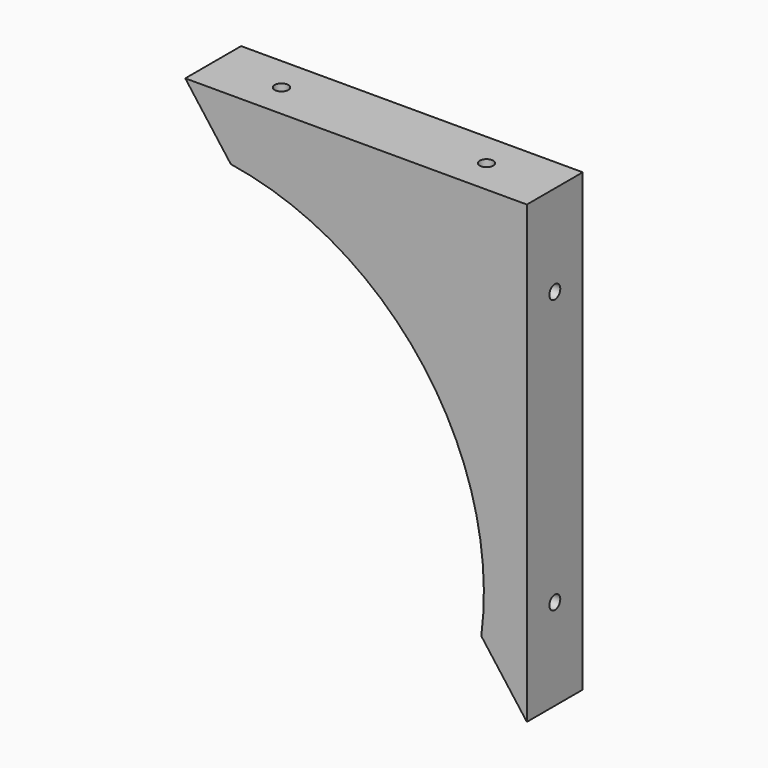
from build123d import *

# Parameters (mm, degrees)
PAD001_DEPTH    = 23
SKETCH003_R     = 2.25
POCKET_DEPTH    = 5
SKETCH004_R     = 2.25
POCKET001_DEPTH = 5


with BuildPart() as part:
    # Sketch001 → Pad001 (new body)
    with BuildSketch(Plane.XZ):
        with BuildLine():
            Line((56.25, -75), (56.25, 75))
            Line((56.25, 75), (-56.25, 75))
            Line((-56.25, 75), (-41.25, 55))
            ThreePointArc((41.25, -55), (22.420595, 16.815446), (-41.25, 55))
            Line((41.25, -55), (56.25, -75))
        make_face()
    extrude(amount=PAD001_DEPTH)

    # Sketch003 (on Face2 of Pad001) → Pocket (cut)
    with BuildSketch(Plane(origin=(56.25, 0, 0), x_dir=(0, 0, 1), z_dir=(1, 0, 0))):
        with Locations((-45, 11.5)):
            Circle(SKETCH003_R)
        with Locations((45, 11.5)):
            Circle(SKETCH003_R)
    extrude(amount=-POCKET_DEPTH, mode=Mode.SUBTRACT)

    # Sketch004 (on Face7 of Pocket) → Pocket001 (cut)
    with BuildSketch(Plane(origin=(0, 0, 75), x_dir=(-1, 0, 0), z_dir=(0, 0, 1))):
        with Locations((-33.75, 11.5)):
            Circle(SKETCH004_R)
        with Locations((33.75, 11.5)):
            Circle(SKETCH004_R)
    extrude(amount=-POCKET001_DEPTH, mode=Mode.SUBTRACT)


solid = part.part
